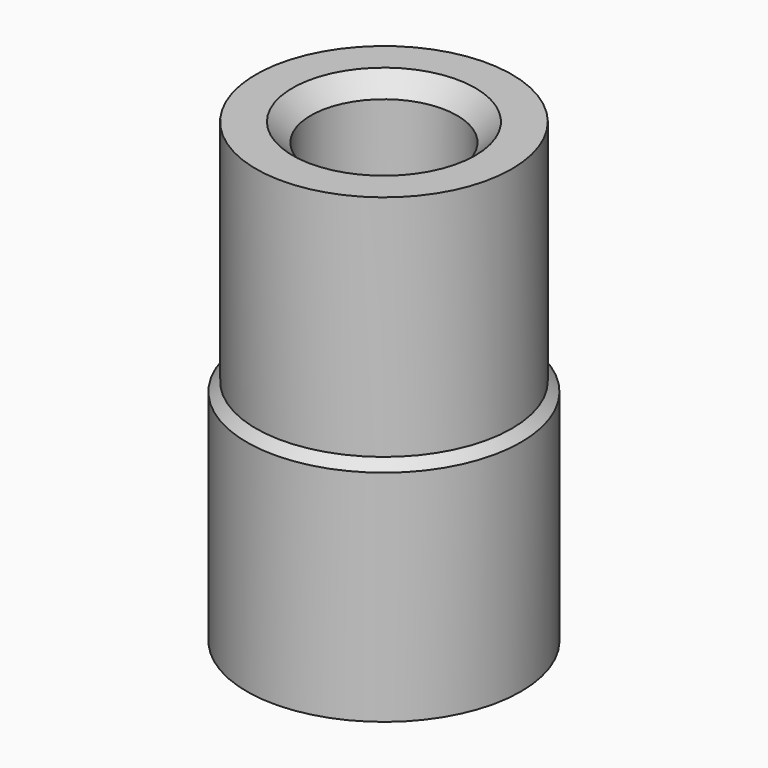
from build123d import *

# Parameters (mm, degrees)
F0_R      = 7
F0_R_2    = 4.5
F0_R_3    = 4
F1_DEPTH  = 12.5
F0_R_4    = 7.5
F2_DEPTH  = 12.5
F3_SIZE   = 0.5
F3_2_SIZE = 0.5
F4_SIZE   = 1
F4_2_SIZE = 1


with BuildPart() as f1:
    # F0 (on Top) → F1 (new body)
    with BuildSketch(Plane.XY):
        with Locations((6.702397, 0)):
            Circle(F0_R)
        with Locations((6.702397, 0)):
            Circle(F0_R_2, mode=Mode.SUBTRACT)
        with Locations((6.702397, 0)):
            Circle(F0_R_2)
        with Locations((6.702397, 0)):
            Circle(F0_R_3, mode=Mode.SUBTRACT)
    extrude(amount=F1_DEPTH)

    # F3
    f3_edges = [f1.edges().sort_by_distance(p)[0] for p in [
        (2.702397, 0, 0),
    ]]
    chamfer(f3_edges, length=F3_SIZE)

    # F4#2
    f4_2_edges = [f1.edges().sort_by_distance(p)[0] for p in [
        (2.702397, 0, 12.5),
    ]]
    chamfer(f4_2_edges, length=F4_2_SIZE)


with BuildPart() as f2:
    # F0 (on Top) → F2 (new body)
    with BuildSketch(Plane.XY):
        with Locations((6.702397, 0)):
            Circle(F0_R_4)
        with Locations((6.702397, 0)):
            Circle(F0_R, mode=Mode.SUBTRACT)
        with Locations((6.702397, 0)):
            Circle(F0_R)
        with Locations((6.702397, 0)):
            Circle(F0_R_2, mode=Mode.SUBTRACT)
    extrude(amount=-F2_DEPTH)

    # F3#2
    f3_2_edges = [f2.edges().sort_by_distance(p)[0] for p in [
        (-0.797603, 0, 0),
    ]]
    chamfer(f3_2_edges, length=F3_2_SIZE)

    # F4
    f4_edges = [f2.edges().sort_by_distance(p)[0] for p in [
        (2.202397, 0, -12.5),
    ]]
    chamfer(f4_edges, length=F4_SIZE)


solid = Compound([f1.part, f2.part])
